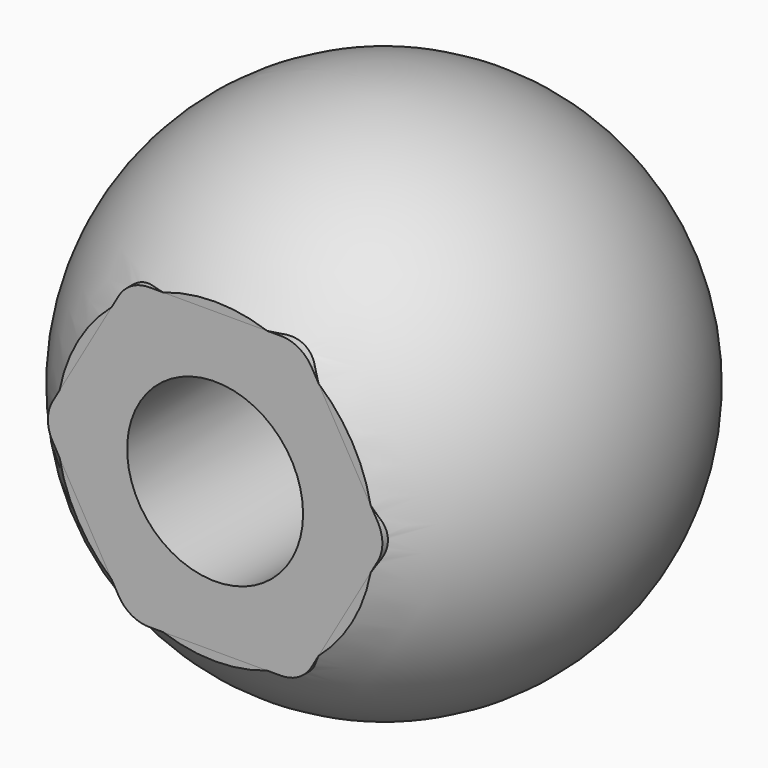
from build123d import *

# Parameters (mm, degrees)
F3_START = 2
F2_R     = 5
F3_DEPTH = 10
F4_W     = 45
F4_H     = 45
F4_R     = 5
F5_DEPTH = 25
F7_R     = 5
F8_DEPTH = 10


with BuildPart() as f1:
    # F0 (on Front) → F1 (revolve)
    with BuildSketch(Plane.XZ):
        with BuildLine():
            Line((0, -15), (0, 15))
            ThreePointArc((0, 15), (-15, 0), (0, -15))
        make_face()
    revolve(axis=Axis((0, 0, -1.5722160553), (0, 0, -1)))

    # F4 (on face) → F5 (cut)
    with BuildSketch(Plane.XZ.offset(12)):
        Rectangle(F4_W, F4_H)
        with BuildLine():
            Line((9.2372830265, -1.00296342), (5.4824212361, -7.5017591752))
            ThreePointArc((5.4824212361, -7.5017591752), (4.7501356205, -8.2335750994), (3.7500497125, -8.5012034729))
            Line((3.7500497125, -8.5012034729), (-3.7555034008, -8.4987956523))
            ThreePointArc((-3.7555034008, -8.4987956523), (-4.7554173898, -8.2305256685), (-5.487233314, -7.4982400529))
            Line((-5.487233314, -7.4982400529), (-9.2379246369, -0.9970364771))
            ThreePointArc((-9.2379246369, -0.9970364771), (-9.5055530103, 0.0030494309), (-9.2372830265, 1.00296342))
            Line((-9.2372830265, 1.00296342), (-5.4824212361, 7.5017591752))
            ThreePointArc((-5.4824212361, 7.5017591752), (-4.7501356205, 8.2335750994), (-3.7500497125, 8.5012034729))
            Line((-3.7500497125, 8.5012034729), (3.7555034008, 8.4987956523))
            ThreePointArc((3.7555034008, 8.4987956523), (4.7554173898, 8.2305256685), (5.487233314, 7.4982400529))
            Line((5.487233314, 7.4982400529), (9.2379246369, 0.9970364771))
            ThreePointArc((9.2379246369, 0.9970364771), (9.5055530103, -0.0030494309), (9.2372830265, -1.00296342))
        make_face(mode=Mode.SUBTRACT)
        with BuildLine():
            ThreePointArc((3.7500497125, -8.5012034729), (4.7501356205, -8.2335750994), (5.4824212361, -7.5017591752))
            Line((5.4824212361, -7.5017591752), (9.2372830265, -1.00296342))
            ThreePointArc((9.2372830265, -1.00296342), (9.5055530103, -0.0030494309), (9.2379246369, 0.9970364771))
            Line((9.2379246369, 0.9970364771), (5.487233314, 7.4982400529))
            ThreePointArc((5.487233314, 7.4982400529), (4.7554173898, 8.2305256685), (3.7555034008, 8.4987956523))
            Line((3.7555034008, 8.4987956523), (-3.7500497125, 8.5012034729))
            ThreePointArc((-3.7500497125, 8.5012034729), (-4.7501356205, 8.2335750994), (-5.4824212361, 7.5017591752))
            Line((-5.4824212361, 7.5017591752), (-9.2372830265, 1.00296342))
            ThreePointArc((-9.2372830265, 1.00296342), (-9.5055530103, 0.0030494309), (-9.2379246369, -0.9970364771))
            Line((-9.2379246369, -0.9970364771), (-5.487233314, -7.4982400529))
            ThreePointArc((-5.487233314, -7.4982400529), (-4.7554173898, -8.2305256685), (-3.7555034008, -8.4987956523))
            Line((-3.7555034008, -8.4987956523), (3.7500497125, -8.5012034729))
        make_face()
        Circle(F4_R, mode=Mode.SUBTRACT)
    extrude(amount=F5_DEPTH, mode=Mode.SUBTRACT)


with BuildPart() as f3:
    # F2 (on Front) → F3 (new body)
    with BuildSketch(Plane.XZ.offset(F3_START)):
        with BuildLine():
            Line((9.2379246369, 0.9970364771), (5.487233314, 7.4982400529))
            ThreePointArc((5.487233314, 7.4982400529), (4.7554173898, 8.2305256685), (3.7555034008, 8.4987956523))
            Line((3.7555034008, 8.4987956523), (-3.7500497125, 8.5012034729))
            ThreePointArc((-3.7500497125, 8.5012034729), (-4.7501356205, 8.2335750994), (-5.4824212361, 7.5017591752))
            Line((-5.4824212361, 7.5017591752), (-9.2372830265, 1.00296342))
            ThreePointArc((-9.2372830265, 1.00296342), (-9.5055530103, 0.0030494309), (-9.2379246369, -0.9970364771))
            Line((-9.2379246369, -0.9970364771), (-5.487233314, -7.4982400529))
            ThreePointArc((-5.487233314, -7.4982400529), (-4.7554173898, -8.2305256685), (-3.7555034008, -8.4987956523))
            Line((-3.7555034008, -8.4987956523), (3.7500497125, -8.5012034729))
            ThreePointArc((3.7500497125, -8.5012034729), (4.7501356205, -8.2335750994), (5.4824212361, -7.5017591752))
            Line((5.4824212361, -7.5017591752), (9.2372830265, -1.00296342))
            ThreePointArc((9.2372830265, -1.00296342), (9.5055530103, -0.0030494309), (9.2379246369, 0.9970364771))
        make_face()
        Circle(F2_R, mode=Mode.SUBTRACT)
    extrude(amount=F3_DEPTH)


with BuildPart() as f1_1:
    add(f1.part)

    # F6: cut F3
    add(f3.part, mode=Mode.SUBTRACT)

    # F7 (on face) → F8 (cut, symmetric)
    with BuildSketch(Plane.XZ.offset(12)):
        Circle(F7_R)
    extrude(amount=F8_DEPTH, both=True, mode=Mode.SUBTRACT)


solid = Compound([f3.part, f1_1.part])
